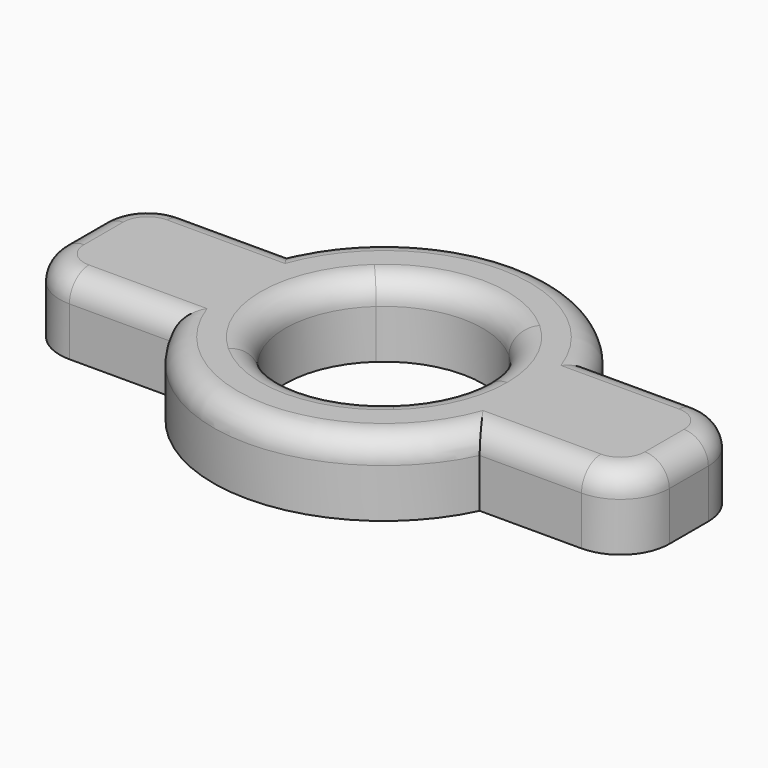
from build123d import *

# Parameters (mm, degrees)
F2_DEPTH = 3
F3_R     = 2
F4_R     = 1


with BuildPart() as f2:
    # F1 (on Top) → F2 (new body)
    with BuildSketch(Plane.XY):
        with BuildLine():
            ThreePointArc((-6.3245553203, -3), (-7, 0), (-6.3245553203, 3))
            Line((-6.3245553203, 3), (-12.5, 3))
            Line((-12.5, 3), (-12.5, -3))
            Line((-12.5, -3), (-6.3245553203, -3))
        make_face()
        with BuildLine():
            Line((6.3245553203, -3), (2.7207535721, -3))
            ThreePointArc((2.7207535721, -3), (0, -4.05), (-2.7207535721, -3))
            Line((-2.7207535721, -3), (-6.3245553203, -3))
            ThreePointArc((-6.3245553203, -3), (0, -7), (6.3245553203, -3))
        make_face()
        with BuildLine():
            ThreePointArc((-2.7207535721, -3), (-4.05, 0), (-2.7207535721, 3))
            Line((-2.7207535721, 3), (-6.3245553203, 3))
            ThreePointArc((-6.3245553203, 3), (-7, 0), (-6.3245553203, -3))
            Line((-6.3245553203, -3), (-2.7207535721, -3))
        make_face()
        with BuildLine():
            ThreePointArc((-2.7207535721, 3), (0, 4.05), (2.7207535721, 3))
            Line((2.7207535721, 3), (6.3245553203, 3))
            ThreePointArc((6.3245553203, 3), (0, 7), (-6.3245553203, 3))
            Line((-6.3245553203, 3), (-2.7207535721, 3))
        make_face()
        with BuildLine():
            ThreePointArc((2.7207535721, 3), (3.7028065009, 1.6406474382), (4.05, 0))
            ThreePointArc((4.05, 0), (3.7028065009, -1.6406474382), (2.7207535721, -3))
            Line((2.7207535721, -3), (6.3245553203, -3))
            ThreePointArc((6.3245553203, -3), (6.8290514437, -1.5375488216), (7, 0))
            ThreePointArc((7, 0), (6.8290514437, 1.5375488216), (6.3245553203, 3))
            Line((6.3245553203, 3), (2.7207535721, 3))
        make_face()
        with BuildLine():
            Line((12.5, 3), (6.3245553203, 3))
            ThreePointArc((6.3245553203, 3), (6.8290514437, 1.5375488216), (7, 0))
            ThreePointArc((7, 0), (6.8290514437, -1.5375488216), (6.3245553203, -3))
            Line((6.3245553203, -3), (12.5, -3))
            Line((12.5, -3), (12.5, 3))
        make_face()
    extrude(amount=F2_DEPTH)

    # F3
    f3_edges = [f2.edges().sort_by_distance(p)[0] for p in [
        (-12.5, -3, 1.5),
        (-12.5, 3, 1.5),
        (12.5, -3, 1.5),
        (12.5, 3, 1.5),
    ]]
    fillet(f3_edges, radius=F3_R)

    # F4
    f4_edges = [f2.edges().sort_by_distance(p)[0] for p in [
        (-12.5, 0, 3),
        (-11.914214, 2.414214, 3),
        (-11.914214, -2.414214, 3),
        (-8.412278, 3, 3),
        (-8.412278, -3, 3),
        (0, 7, 3),
        (0, -7, 3),
        (8.412278, 3, 3),
        (8.412278, -3, 3),
        (11.914214, 2.414214, 3),
        (11.914214, -2.414214, 3),
        (12.5, 0, 3),
        (-2.720754, -3, 3),
    ]]
    fillet(f4_edges, radius=F4_R)


solid = f2.part
